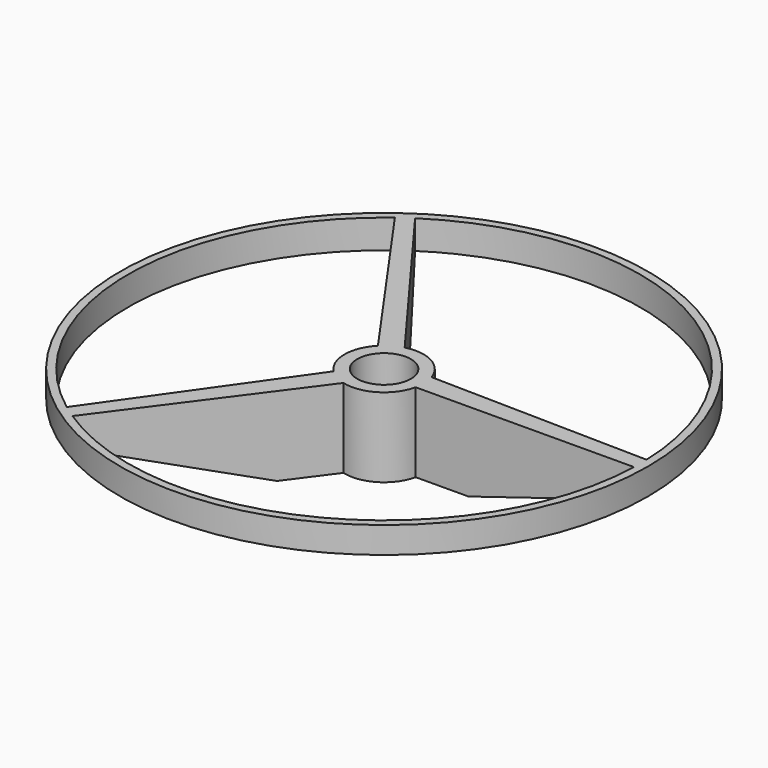
from build123d import *

# Parameters (mm, degrees)
CYLINDER_R     = 100
CYLINDER_DEPTH = 10
SKETCH_R       = 100
SKETCH_R_2     = 10.15
PAD_DEPTH      = 40


with BuildPart() as cone:
    # Cone → Cone (revolve)
    with BuildSketch(Plane(origin=(0, 0, -30), x_dir=(1, 0, 0), z_dir=(0, -1, 0))):
        Polygon((0, 0), (2, 0), (100, 30), (0, 30), align=None)
    revolve(axis=Axis((0, 0, -30), (0, 0, 1)))


with BuildPart() as fusion:
    # Cylinder → Cylinder (new body)
    with BuildSketch(Plane.XY):
        Circle(CYLINDER_R)
    extrude(amount=CYLINDER_DEPTH)

    # Fusion: union Cone
    add(cone.part)


with BuildPart() as fusion_1:
    # Fusion placement: moved
    add(fusion.part.moved(Location((0, 0, 20))))


with BuildPart() as common:
    # Sketch → Pad (new body)
    with BuildSketch(Plane.XY):
        Circle(SKETCH_R)
        Circle(SKETCH_R_2, mode=Mode.SUBTRACT)
        with BuildLine():
            ThreePointArc((96.949765, 3.121375), (44.731918, 86.070062), (-53.160067, 81.135734))
            Line((-3.811001, 14.5078), (-53.160067, 81.135734))
            ThreePointArc((14.25383, 4.672079), (7.172763, 13.173894), (-3.811001, 14.5078))
            Line((14.25383, 4.672079), (96.949765, 3.121375))
        make_face(mode=Mode.SUBTRACT)
        with BuildLine():
            Line((14.628164, -3.319158), (96.957277, -2.87862))
            ThreePointArc((-53.160067, -81.135734), (44.839635, -86.013994), (96.957277, -2.87862))
            Line((-3.811001, -14.5078), (-53.160067, -81.135734))
            ThreePointArc((-3.811001, -14.5078), (7.781336, -12.823838), (14.628164, -3.319158))
        make_face(mode=Mode.SUBTRACT)
        with BuildLine():
            Line((-10.726301, -10.485536), (-58.074672, -77.693838))
            ThreePointArc((-58.074672, 77.693838), (-97, 0), (-58.074672, -77.693838))
            Line((-10.726301, 10.485536), (-58.074672, 77.693838))
            ThreePointArc((-10.726301, 10.485536), (-15, 0), (-10.726301, -10.485536))
        make_face(mode=Mode.SUBTRACT)
    extrude(amount=PAD_DEPTH)

    # Common: intersect Fusion
    add(fusion_1.part, mode=Mode.INTERSECT)


solid = common.part
